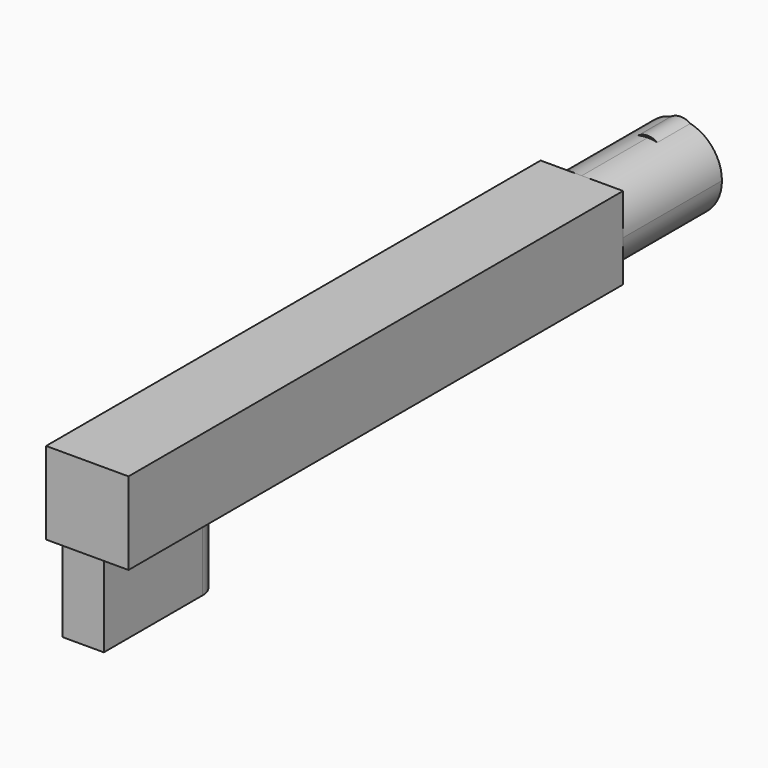
from build123d import *

# Parameters (mm, degrees)
F0_W     = 5.08
F0_H     = 5.08
F1_DEPTH = 25.4
F2_W     = 2.54
F2_H     = 7.62
F3_DEPTH = 6.35
F4_DEPTH = 12.7
F6_DEPTH = 7.62
F8_DEPTH = 2.54


with BuildPart() as f1:
    # F0 (on Front) → F1 (new body)
    with BuildSketch(Plane.XZ):
        Rectangle(F0_W, F0_H)
    extrude(amount=F1_DEPTH)

    # F2 (on face) → F3 (join)
    with BuildSketch(Plane(origin=(0, 0, -2.54), x_dir=(1, 0, 0), z_dir=(0, 0, -1))):
        with Locations((-1.9143006529, 19.5104427957)):
            Rectangle(F2_W, F2_H)
        with BuildLine():
            Line((-0.6443006529, 15.7004427957), (-3.1843006529, 15.7004427957))
            ThreePointArc((-3.1843006529, 15.7004427957), (-1.9143006529, 14.4304427957), (-0.6443006529, 15.7004427957))
        make_face()
    extrude(amount=F3_DEPTH)

    # F4 (add): a face of the model
    f4_faces = [f1.faces().sort_by_distance(p)[0] for p in [
        (0, 0, 0),
    ]]
    extrude(f4_faces, amount=F4_DEPTH)

    # F5 (on face) → F6 (join)
    with BuildSketch(Plane(origin=(0, 12.7, 0), x_dir=(-1, 0, 0), z_dir=(0, 1, 0))):
        with BuildLine():
            ThreePointArc((0, -2.54), (1.7960512242, -1.7960512242), (2.54, 0))
            ThreePointArc((2.54, 0), (1.7960512242, 1.7960512242), (0, 2.54))
            ThreePointArc((0, 2.54), (-1.7960512242, 1.7960512242), (-2.54, 0))
            ThreePointArc((-2.54, 0), (-1.7960512242, -1.7960512242), (0, -2.54))
        make_face()
    extrude(amount=F6_DEPTH)

    # F7 (on face) → F8 (join)
    with BuildSketch(Plane(origin=(0, 20.32, 0), x_dir=(-1, 0, 0), z_dir=(0, 1, 0))):
        with BuildLine():
            ThreePointArc((0.5929512242, 2.4698195978), (0, 2.6476778516), (-0.5929512242, 2.4698195978))
            ThreePointArc((-0.5929512242, 2.4698195978), (0, 2.54), (0.5929512242, 2.4698195978))
        make_face()
    extrude(amount=-F8_DEPTH)


solid = f1.part
